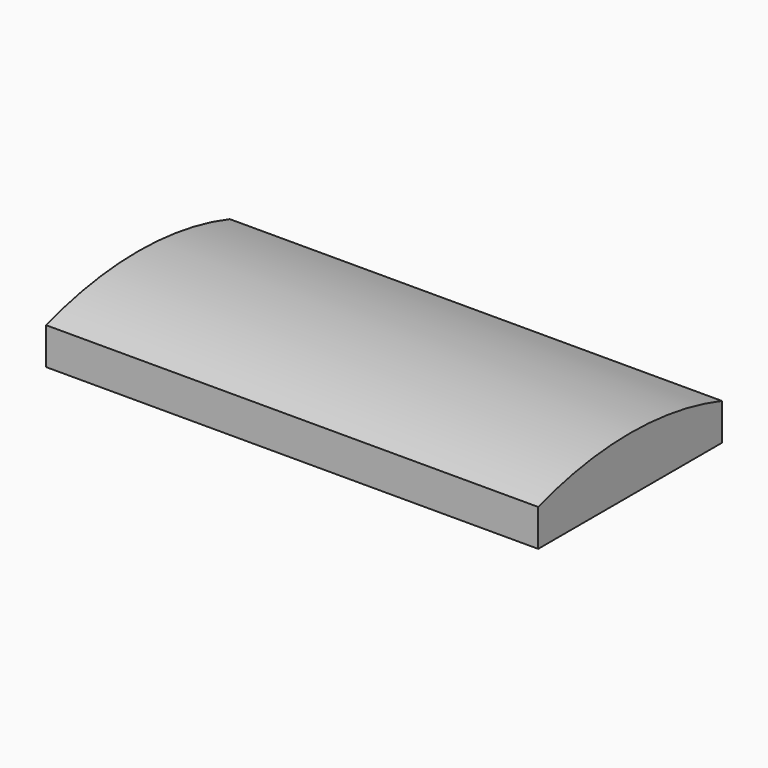
from build123d import *

# Parameters (mm, degrees)
F1_DEPTH = 60
F2_W     = 50
F2_H     = 3
F3_DEPTH = 117


with BuildPart() as f1:
    # F0 (on Right) → F1 (new body, symmetric)
    with BuildSketch(Plane.YZ):
        with BuildLine():
            Line((-28, -4.5), (28, -4.5))
            Line((28, -4.5), (28, 4.5))
            ThreePointArc((28, 4.5), (0, 8.966381), (-28, 4.5))
            Line((-28, 4.5), (-28, -4.5))
        make_face()
    extrude(amount=F1_DEPTH, both=True)

    # F2 (on face) → F3 (cut)
    with BuildSketch(Plane(origin=(-60, 0, 0), x_dir=(0, -1, 0), z_dir=(-1, 0, 0))):
        Rectangle(F2_W, F2_H)
    extrude(amount=-F3_DEPTH, mode=Mode.SUBTRACT)


solid = f1.part
